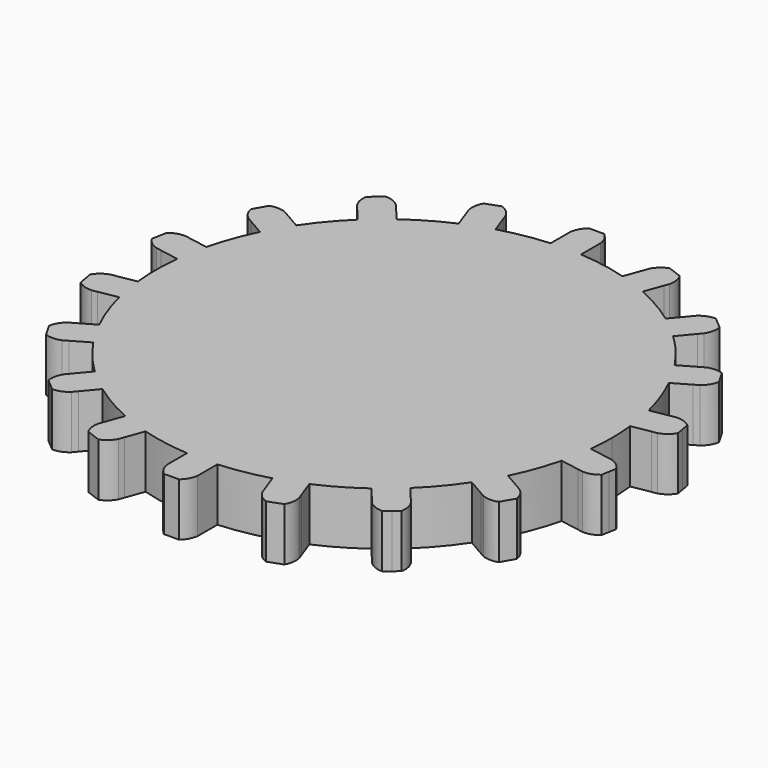
from build123d import *

# Parameters (mm, degrees)
F1_DEPTH = 7


with BuildPart() as f1:
    # F0 (on Top) → F1 (new body)
    with BuildSketch(Plane.XY):
        with BuildLine():
            ThreePointArc((29.825802, -3.22824), (29.956419, -1.616468), (30, 0))
            ThreePointArc((30, 0), (29.956419, 1.616468), (29.825802, 3.22824))
            ThreePointArc((29.825802, 3.22824), (29.544233, 5.209445), (29.131209, 7.167471))
            ThreePointArc((29.131209, 7.167471), (28.190779, 10.260604), (26.922963, 13.234579))
            ThreePointArc((26.922963, 13.234579), (25.980762, 15), (24.922963, 16.69868))
            ThreePointArc((24.922963, 16.69868), (22.981333, 19.283628), (20.772817, 21.644632))
            ThreePointArc((20.772817, 21.644632), (19.283628, 22.981333), (17.708639, 24.215782))
            ThreePointArc((17.708639, 24.215782), (15, 25.980762), (12.117163, 27.444022))
            ThreePointArc((12.117163, 27.444022), (10.260604, 28.190779), (8.358392, 28.812103))
            ThreePointArc((8.358392, 28.812103), (5.209445, 29.544233), (2, 29.933259))
            ThreePointArc((2, 29.933259), (0, 30), (-2, 29.933259))
            ThreePointArc((-2, 29.933259), (-5.209445, 29.544233), (-8.358392, 28.812103))
            ThreePointArc((-8.358392, 28.812103), (-10.260604, 28.190779), (-12.117163, 27.444022))
            ThreePointArc((-12.117163, 27.444022), (-15, 25.980762), (-17.708639, 24.215782))
            ThreePointArc((-17.708639, 24.215782), (-19.283628, 22.981333), (-20.772817, 21.644632))
            ThreePointArc((-20.772817, 21.644632), (-22.981333, 19.283628), (-24.922963, 16.69868))
            ThreePointArc((-24.922963, 16.69868), (-25.980762, 15), (-26.922963, 13.234579))
            ThreePointArc((-26.922963, 13.234579), (-28.190779, 10.260604), (-29.131209, 7.167471))
            ThreePointArc((-29.131209, 7.167471), (-29.544233, 5.209445), (-29.825802, 3.22824))
            ThreePointArc((-29.825802, 3.22824), (-30, 0), (-29.825802, -3.22824))
            ThreePointArc((-29.825802, -3.22824), (-29.544233, -5.209445), (-29.131209, -7.167471))
            ThreePointArc((-29.131209, -7.167471), (-28.190779, -10.260604), (-26.922963, -13.234579))
            ThreePointArc((-26.922963, -13.234579), (-25.980762, -15), (-24.922963, -16.69868))
            ThreePointArc((-24.922963, -16.69868), (-22.981333, -19.283628), (-20.772817, -21.644632))
            ThreePointArc((-20.772817, -21.644632), (-19.283628, -22.981333), (-17.708639, -24.215782))
            ThreePointArc((-17.708639, -24.215782), (-15, -25.980762), (-12.117163, -27.444022))
            ThreePointArc((-12.117163, -27.444022), (-10.260604, -28.190779), (-8.358392, -28.812103))
            ThreePointArc((-8.358392, -28.812103), (-5.209445, -29.544233), (-2, -29.933259))
            ThreePointArc((-2, -29.933259), (0, -30), (2, -29.933259))
            ThreePointArc((2, -29.933259), (5.209445, -29.544233), (8.358392, -28.812103))
            ThreePointArc((8.358392, -28.812103), (10.260604, -28.190779), (12.117163, -27.444022))
            ThreePointArc((12.117163, -27.444022), (15, -25.980762), (17.708639, -24.215782))
            ThreePointArc((17.708639, -24.215782), (19.283628, -22.981333), (20.772817, -21.644632))
            ThreePointArc((20.772817, -21.644632), (22.981333, -19.283628), (24.922963, -16.69868))
            ThreePointArc((24.922963, -16.69868), (25.980762, -15), (26.922963, -13.234579))
            ThreePointArc((26.922963, -13.234579), (28.190779, -10.260604), (29.131209, -7.167471))
            ThreePointArc((29.131209, -7.167471), (29.544233, -5.209445), (29.825802, -3.22824))
        make_face()
        with BuildLine():
            ThreePointArc((-12.117163, 27.444022), (-10.260604, 28.190779), (-8.358392, 28.812103))
            Line((-8.358392, 28.812103), (-9.224856, 31.192692))
            Line((-9.224856, 31.192692), (-9.467356, 31.858955))
            ThreePointArc((-9.467356, 31.858955), (-10.118661, 32.693831), (-11.031012, 33.231262))
            Line((-11.031012, 33.231262), (-11.970705, 32.889242))
            Line((-11.970705, 32.889242), (-12.910398, 32.547222))
            ThreePointArc((-12.910398, 32.547222), (-13.263845, 31.549077), (-13.226126, 30.490874))
            Line((-13.226126, 30.490874), (-12.983627, 29.824612))
            Line((-12.983627, 29.824612), (-12.117163, 27.444022))
        make_face()
        with BuildLine():
            ThreePointArc((-20.772817, 21.644632), (-19.283628, 22.981333), (-17.708639, 24.215782))
            Line((-17.708639, 24.215782), (-19.337058, 26.156456))
            Line((-19.337058, 26.156456), (-19.792808, 26.699598))
            ThreePointArc((-19.792808, 26.699598), (-20.69038, 27.261365), (-21.731522, 27.454343))
            Line((-21.731522, 27.454343), (-22.497566, 26.811556))
            Line((-22.497566, 26.811556), (-23.263611, 26.168768))
            ThreePointArc((-23.263611, 26.168768), (-23.254357, 25.109933), (-22.856986, 24.128448))
            Line((-22.856986, 24.128448), (-22.401236, 23.585306))
            Line((-22.401236, 23.585306), (-20.772817, 21.644632))
        make_face()
        with BuildLine():
            ThreePointArc((-26.922963, 13.234579), (-25.980762, 15), (-24.922963, 16.69868))
            Line((-24.922963, 16.69868), (-27.116926, 17.965366))
            Line((-27.116926, 17.965366), (-27.730957, 18.319876))
            ThreePointArc((-27.730957, 18.319876), (-28.766533, 18.540777), (-29.810889, 18.366025))
            Line((-29.810889, 18.366025), (-30.310889, 17.5))
            Line((-30.310889, 17.5), (-30.810889, 16.633975))
            ThreePointArc((-30.810889, 16.633975), (-30.440051, 15.64216), (-29.730957, 14.855775))
            Line((-29.730957, 14.855775), (-29.116926, 14.501264))
            Line((-29.116926, 14.501264), (-26.922963, 13.234579))
        make_face()
        with BuildLine():
            ThreePointArc((-29.825802, 3.22824), (-29.544233, 5.209445), (-29.131209, 7.167471))
            Line((-29.131209, 7.167471), (-31.626092, 7.607387))
            Line((-31.626092, 7.607387), (-32.324342, 7.730507))
            ThreePointArc((-32.324342, 7.730507), (-33.373019, 7.583898), (-34.294623, 7.062494))
            Line((-34.294623, 7.062494), (-34.468271, 6.077686))
            Line((-34.468271, 6.077686), (-34.64192, 5.092878))
            ThreePointArc((-34.64192, 5.092878), (-33.954225, 4.287712), (-33.018935, 3.791276))
            Line((-33.018935, 3.791276), (-32.320685, 3.668156))
            Line((-32.320685, 3.668156), (-29.825802, 3.22824))
        make_face()
        with BuildLine():
            Line((-31.626092, -7.607387), (-29.131209, -7.167471))
            ThreePointArc((-29.131209, -7.167471), (-29.544233, -5.209445), (-29.825802, -3.22824))
            Line((-29.825802, -3.22824), (-32.320685, -3.668156))
            Line((-32.320685, -3.668156), (-33.018935, -3.791276))
            ThreePointArc((-33.018935, -3.791276), (-33.954225, -4.287712), (-34.64192, -5.092878))
            Line((-34.64192, -5.092878), (-34.468271, -6.077686))
            Line((-34.468271, -6.077686), (-34.294623, -7.062494))
            ThreePointArc((-34.294623, -7.062494), (-33.373019, -7.583898), (-32.324342, -7.730507))
            Line((-32.324342, -7.730507), (-31.626092, -7.607387))
        make_face()
        with BuildLine():
            Line((-27.116926, -17.965366), (-24.922963, -16.69868))
            ThreePointArc((-24.922963, -16.69868), (-25.980762, -15), (-26.922963, -13.234579))
            Line((-26.922963, -13.234579), (-29.116926, -14.501264))
            Line((-29.116926, -14.501264), (-29.730957, -14.855775))
            ThreePointArc((-29.730957, -14.855775), (-30.440051, -15.64216), (-30.810889, -16.633975))
            Line((-30.810889, -16.633975), (-30.310889, -17.5))
            Line((-30.310889, -17.5), (-29.810889, -18.366025))
            ThreePointArc((-29.810889, -18.366025), (-28.766533, -18.540777), (-27.730957, -18.319876))
            Line((-27.730957, -18.319876), (-27.116926, -17.965366))
        make_face()
        with BuildLine():
            Line((-19.337058, -26.156456), (-17.708639, -24.215782))
            ThreePointArc((-17.708639, -24.215782), (-19.283628, -22.981333), (-20.772817, -21.644632))
            Line((-20.772817, -21.644632), (-22.401236, -23.585306))
            Line((-22.401236, -23.585306), (-22.856986, -24.128448))
            ThreePointArc((-22.856986, -24.128448), (-23.254357, -25.109933), (-23.263611, -26.168768))
            Line((-23.263611, -26.168768), (-22.497566, -26.811556))
            Line((-22.497566, -26.811556), (-21.731522, -27.454343))
            ThreePointArc((-21.731522, -27.454343), (-20.69038, -27.261365), (-19.792808, -26.699598))
            Line((-19.792808, -26.699598), (-19.337058, -26.156456))
        make_face()
        with BuildLine():
            Line((-9.224856, -31.192692), (-8.358392, -28.812103))
            ThreePointArc((-8.358392, -28.812103), (-10.260604, -28.190779), (-12.117163, -27.444022))
            Line((-12.117163, -27.444022), (-12.983627, -29.824612))
            Line((-12.983627, -29.824612), (-13.226126, -30.490874))
            ThreePointArc((-13.226126, -30.490874), (-13.263845, -31.549077), (-12.910398, -32.547222))
            Line((-12.910398, -32.547222), (-11.970705, -32.889242))
            Line((-11.970705, -32.889242), (-11.031012, -33.231262))
            ThreePointArc((-11.031012, -33.231262), (-10.118661, -32.693831), (-9.467356, -31.858955))
            Line((-9.467356, -31.858955), (-9.224856, -31.192692))
        make_face()
        with BuildLine():
            Line((2, -32.46663), (2, -29.933259))
            ThreePointArc((2, -29.933259), (0, -30), (-2, -29.933259))
            Line((-2, -29.933259), (-2, -32.46663))
            Line((-2, -32.46663), (-2, -33.175651))
            ThreePointArc((-2, -33.175651), (-1.673517, -34.182937), (-1, -35))
            Line((-1, -35), (0, -35))
            Line((0, -35), (1, -35))
            ThreePointArc((1, -35), (1.673517, -34.182937), (2, -33.175651))
            Line((2, -33.175651), (2, -32.46663))
        make_face()
        with BuildLine():
            Line((12.983627, -29.824612), (12.117163, -27.444022))
            ThreePointArc((12.117163, -27.444022), (10.260604, -28.190779), (8.358392, -28.812103))
            Line((8.358392, -28.812103), (9.224856, -31.192692))
            Line((9.224856, -31.192692), (9.467356, -31.858955))
            ThreePointArc((9.467356, -31.858955), (10.118661, -32.693831), (11.031012, -33.231262))
            Line((11.031012, -33.231262), (11.970705, -32.889242))
            Line((11.970705, -32.889242), (12.910398, -32.547222))
            ThreePointArc((12.910398, -32.547222), (13.263845, -31.549077), (13.226126, -30.490874))
            Line((13.226126, -30.490874), (12.983627, -29.824612))
        make_face()
        with BuildLine():
            Line((22.401236, -23.585306), (20.772817, -21.644632))
            ThreePointArc((20.772817, -21.644632), (19.283628, -22.981333), (17.708639, -24.215782))
            Line((17.708639, -24.215782), (19.337058, -26.156456))
            Line((19.337058, -26.156456), (19.792808, -26.699598))
            ThreePointArc((19.792808, -26.699598), (20.69038, -27.261365), (21.731522, -27.454343))
            Line((21.731522, -27.454343), (22.497566, -26.811556))
            Line((22.497566, -26.811556), (23.263611, -26.168768))
            ThreePointArc((23.263611, -26.168768), (23.254357, -25.109933), (22.856986, -24.128448))
            Line((22.856986, -24.128448), (22.401236, -23.585306))
        make_face()
        with BuildLine():
            Line((29.116926, -14.501264), (26.922963, -13.234579))
            ThreePointArc((26.922963, -13.234579), (25.980762, -15), (24.922963, -16.69868))
            Line((24.922963, -16.69868), (27.116926, -17.965366))
            Line((27.116926, -17.965366), (27.730957, -18.319876))
            ThreePointArc((27.730957, -18.319876), (28.766533, -18.540777), (29.810889, -18.366025))
            Line((29.810889, -18.366025), (30.310889, -17.5))
            Line((30.310889, -17.5), (30.810889, -16.633975))
            ThreePointArc((30.810889, -16.633975), (30.440051, -15.64216), (29.730957, -14.855775))
            Line((29.730957, -14.855775), (29.116926, -14.501264))
        make_face()
        with BuildLine():
            Line((32.320685, -3.668156), (29.825802, -3.22824))
            ThreePointArc((29.825802, -3.22824), (29.544233, -5.209445), (29.131209, -7.167471))
            Line((29.131209, -7.167471), (31.626092, -7.607387))
            Line((31.626092, -7.607387), (32.324342, -7.730507))
            ThreePointArc((32.324342, -7.730507), (33.373019, -7.583898), (34.294623, -7.062494))
            Line((34.294623, -7.062494), (34.468271, -6.077686))
            Line((34.468271, -6.077686), (34.64192, -5.092878))
            ThreePointArc((34.64192, -5.092878), (33.954225, -4.287712), (33.018935, -3.791276))
            Line((33.018935, -3.791276), (32.320685, -3.668156))
        make_face()
        with BuildLine():
            ThreePointArc((29.131209, 7.167471), (29.544233, 5.209445), (29.825802, 3.22824))
            Line((29.825802, 3.22824), (32.320685, 3.668156))
            Line((32.320685, 3.668156), (33.018935, 3.791276))
            ThreePointArc((33.018935, 3.791276), (33.954225, 4.287712), (34.64192, 5.092878))
            Line((34.64192, 5.092878), (34.468271, 6.077686))
            Line((34.468271, 6.077686), (34.294623, 7.062494))
            ThreePointArc((34.294623, 7.062494), (33.373019, 7.583898), (32.324342, 7.730507))
            Line((32.324342, 7.730507), (31.626092, 7.607387))
            Line((31.626092, 7.607387), (29.131209, 7.167471))
        make_face()
        with BuildLine():
            ThreePointArc((24.922963, 16.69868), (25.980762, 15), (26.922963, 13.234579))
            Line((26.922963, 13.234579), (29.116926, 14.501264))
            Line((29.116926, 14.501264), (29.730957, 14.855775))
            ThreePointArc((29.730957, 14.855775), (30.440051, 15.64216), (30.810889, 16.633975))
            Line((30.810889, 16.633975), (30.310889, 17.5))
            Line((30.310889, 17.5), (29.810889, 18.366025))
            ThreePointArc((29.810889, 18.366025), (28.766533, 18.540777), (27.730957, 18.319876))
            Line((27.730957, 18.319876), (27.116926, 17.965366))
            Line((27.116926, 17.965366), (24.922963, 16.69868))
        make_face()
        with BuildLine():
            ThreePointArc((17.708639, 24.215782), (19.283628, 22.981333), (20.772817, 21.644632))
            Line((20.772817, 21.644632), (22.401236, 23.585306))
            Line((22.401236, 23.585306), (22.856986, 24.128448))
            ThreePointArc((22.856986, 24.128448), (23.254357, 25.109933), (23.263611, 26.168768))
            Line((23.263611, 26.168768), (22.497566, 26.811556))
            Line((22.497566, 26.811556), (21.731522, 27.454343))
            ThreePointArc((21.731522, 27.454343), (20.69038, 27.261365), (19.792808, 26.699598))
            Line((19.792808, 26.699598), (19.337058, 26.156456))
            Line((19.337058, 26.156456), (17.708639, 24.215782))
        make_face()
        with BuildLine():
            ThreePointArc((8.358392, 28.812103), (10.260604, 28.190779), (12.117163, 27.444022))
            Line((12.117163, 27.444022), (12.983627, 29.824612))
            Line((12.983627, 29.824612), (13.226126, 30.490874))
            ThreePointArc((13.226126, 30.490874), (13.263845, 31.549077), (12.910398, 32.547222))
            Line((12.910398, 32.547222), (11.970705, 32.889242))
            Line((11.970705, 32.889242), (11.031012, 33.231262))
            ThreePointArc((11.031012, 33.231262), (10.118661, 32.693831), (9.467356, 31.858955))
            Line((9.467356, 31.858955), (9.224856, 31.192692))
            Line((9.224856, 31.192692), (8.358392, 28.812103))
        make_face()
        with BuildLine():
            ThreePointArc((-2, 29.933259), (0, 30), (2, 29.933259))
            Line((2, 29.933259), (2, 32.46663))
            Line((2, 32.46663), (2, 33.175651))
            ThreePointArc((2, 33.175651), (1.673517, 34.182937), (1, 35))
            Line((1, 35), (0, 35))
            Line((0, 35), (-1, 35))
            ThreePointArc((-1, 35), (-1.673517, 34.182937), (-2, 33.175651))
            Line((-2, 33.175651), (-2, 32.46663))
            Line((-2, 32.46663), (-2, 29.933259))
        make_face()
    extrude(amount=F1_DEPTH)


solid = f1.part
